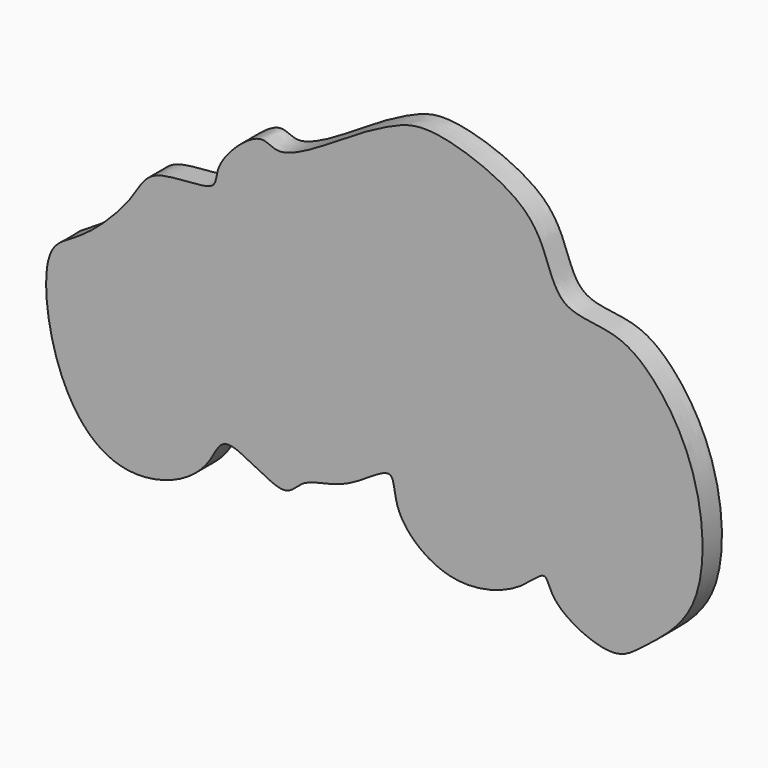
from build123d import *

# Parameters (mm, degrees)
F1_DEPTH = 9


with BuildPart() as f1:
    # F0 (on Front) → F1 (new body)
    with BuildSketch(Plane.XZ):
        with BuildLine():
            add(Edge.make_bspline(
                [(-184.1174960136, 104.6823188663), (-186.6774933056, 100.5749022277), (-194.8802825551, 93.1362253659), (-213.7439110292, 88.9132587843), (-231.3868939634, 96.9029500319), (-244.6166923881, 121.4248723753), (-247.2340463253, 155.8186979894), (-231.6868807047, 161.0526160065), (-212.4619294501, 179.9038102146), (-207.2140872178, 194.2310980862), (-180.3963556145, 191.6077124882), (-183.5154361486, 202.5155340985), (-165.567130064, 219.4111709443), (-158.4876992579, 209.8566419462), (-131.4615922578, 228.364678127), (-115.8191483208, 236.5320301111), (-101.6919017624, 241.2728882059), (-65.1372019018, 228.2775882161), (-58.6197959163, 209.2892121529), (-52.9804501824, 195.5637077542), (-33.9155216943, 195.8898807119), (-19.3111893654, 186.4879672069), (-0.9944531042, 159.7850848168), (1.4757025104, 113.7353735486), (-22.7612380563, 96.1555271339), (-33.975631949, 86.5734964723), (-57.4949960145, 97.7464021317), (-58.9201443531, 110.1308536239), (-69.1257994393, 97.8928790482), (-95.4664105124, 90.5006400118), (-116.7659264919, 108.4125149541), (-114.8648719522, 126.8854165662), (-133.4881345115, 110.2871147702), (-150.1939280492, 110.2979279022), (-156.3237347764, 98.6702006479), (-179.1401801796, 116.9494960642), (-182.0986143834, 107.921536355), (-184.1174960136, 104.6823188663)],
                knots=[0, 0, 0, 0, 0.0259409987, 0.0543159595, 0.0820656402, 0.1173266814, 0.1540013934, 0.1789889657, 0.2129542439, 0.2381402987, 0.2682695547, 0.2868769659, 0.316890987, 0.3350724362, 0.3712229319, 0.4001046733, 0.4249833886, 0.4647907478, 0.4941316725, 0.5177305111, 0.5448418384, 0.5718924914, 0.6092945432, 0.6528870417, 0.6874222249, 0.7117841494, 0.7436940162, 0.7620856895, 0.7839341264, 0.818150865, 0.851448763, 0.8731414585, 0.9011725971, 0.9286319781, 0.9484710163, 0.9795422417, 1, 1, 1, 1], degree=3))
        make_face()
    extrude(amount=F1_DEPTH)


solid = f1.part
